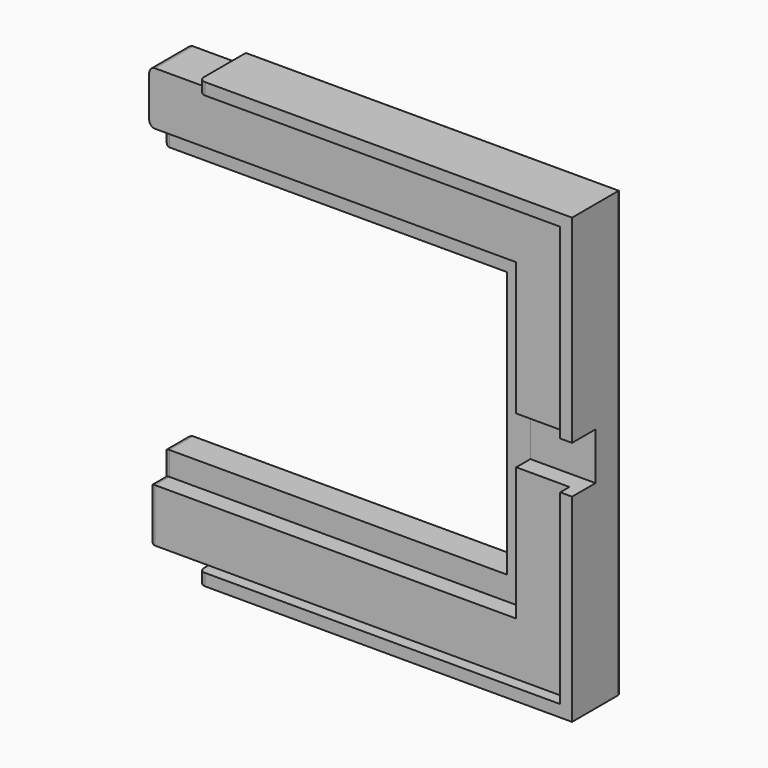
from build123d import *

# Parameters (mm, degrees)
PAD002_DEPTH       = 17.75
PAD002_DEPTH_BACK  = 17.75
POLARPATTERN_COUNT = 2
POLARPATTERN_ANGLE = 270
FILLET_R           = 0.5
PAD005_DEPTH       = 5
FILLET005_R        = 0.1
FILLET006_R        = 0.5
FILLET007_R        = 0.5
SKETCH009_W        = 2.5
SKETCH009_H        = 4
POCKET001_DEPTH    = 36.501


with BuildPart() as part:
    # Sketch003 → Pad002 (new body, two sides)
    with BuildSketch(Plane.YZ) as pad002_sk:
        Polygon((0, -17.75), (4.02, -17.75), (4.02, -11.25), (1.52, -11.25), (1.52, -13.25), (0, -13.25), align=None)
    pad002 = extrude(amount=PAD002_DEPTH) + extrude(pad002_sk.sketch, amount=-PAD002_DEPTH_BACK)

    # PolarPattern: Pad002 ×2 about axis
    polarpattern_axis = Axis((0, 0, 0), (0, 1, 0))
    for i in range(1, POLARPATTERN_COUNT):
        add(pad002.rotate(polarpattern_axis, i * POLARPATTERN_ANGLE / (POLARPATTERN_COUNT - 1)))

    # Mirrored: Pad002 across Sketch003 H_Axis
    add(pad002.mirror(Plane.XY))

    # Fillet
    fillet_edges = [part.edges().sort_by_distance(p)[0] for p in [
        (-17.75, 4.02, 14.5),
        (-17.75, 2.77, 11.25),
        (-17.75, 0.76, 13.25),
        (-17.75, 1.52, 12.25),
        (-17.75, 2.01, 17.75),
    ]]
    fillet(fillet_edges, radius=FILLET_R)

    # Sketch008 → Pad005 (join)
    with BuildSketch(Plane.ZX.offset(4.02)):
        Polygon((-18.75, 18.75), (18.75, 18.75), (18.75, -12.75), (17.75, -12.75), (17.75, 17.75), (-17.75, 17.75), (-17.75, -12.75), (-18.75, -12.75), align=None)
    extrude(amount=-PAD005_DEPTH)

    # Fillet005
    fillet005_edges = [part.edges().sort_by_distance(p)[0] for p in [
        (18.75, 4.02, 0),
        (3, 4.02, -18.75),
        (3, 4.02, 18.75),
    ]]
    fillet(fillet005_edges, radius=FILLET005_R)

    # Fillet006
    fillet006_edges = [part.edges().sort_by_distance(p)[0] for p in [
        (-17.75, 2.77, -11.25),
        (-17.75, 1.52, -12.25),
        (-17.75, 0, -15.5),
        (-17.75, 0.76, -13.25),
        (-17.75, 4.02, -14.5),
        (-17.75, 2.01, -17.75),
    ]]
    fillet(fillet006_edges, radius=FILLET006_R)

    # Fillet007
    fillet007_edges = [part.edges().sort_by_distance(p)[0] for p in [
        (-12.75, -0.98, 18.25),
        (-12.75, -0.98, -18.25),
    ]]
    fillet(fillet007_edges, radius=FILLET007_R)

    # Sketch009 → Pocket001 (cut, through all)
    with BuildSketch(Plane.YZ.offset(18.75)):
        with Locations((0.25, 0)):
            Rectangle(SKETCH009_W, SKETCH009_H)
    extrude(amount=-POCKET001_DEPTH, mode=Mode.SUBTRACT)


with BuildPart() as part_1:
    # Body001 placement: moved
    add(part.part.moved(Location((0, 0.3, 0))))


solid = part_1.part
